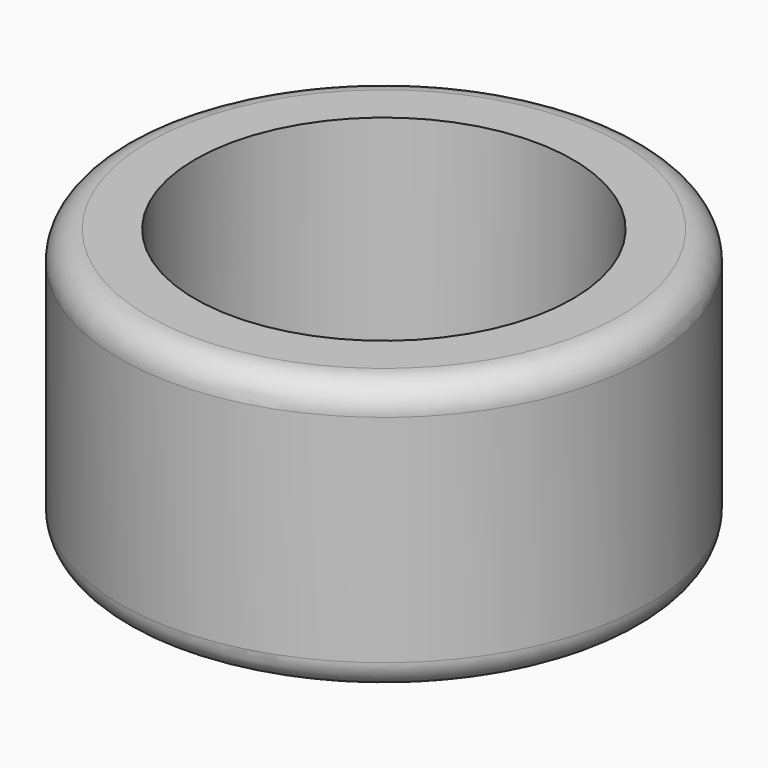
from build123d import *

# Parameters (mm, degrees)
F0_W = 13.473328
F0_H = 48.86999
F3_R = 5.08


with BuildPart() as f2:
    # F0 (on Front) → F2 (revolve)
    with BuildSketch(Plane.XZ):
        with Locations((-40.58134, 0.696903)):
            Rectangle(F0_W, F0_H)
    revolve(axis=Axis((0, 0, 1.296671), (0, 0, -1)))

    # F3
    f3_edges = [f2.edges().sort_by_distance(p)[0] for p in [
        (47.318004, 0, 25.131898),
        (47.318004, 0, -23.738092),
    ]]
    fillet(f3_edges, radius=F3_R)


solid = f2.part
